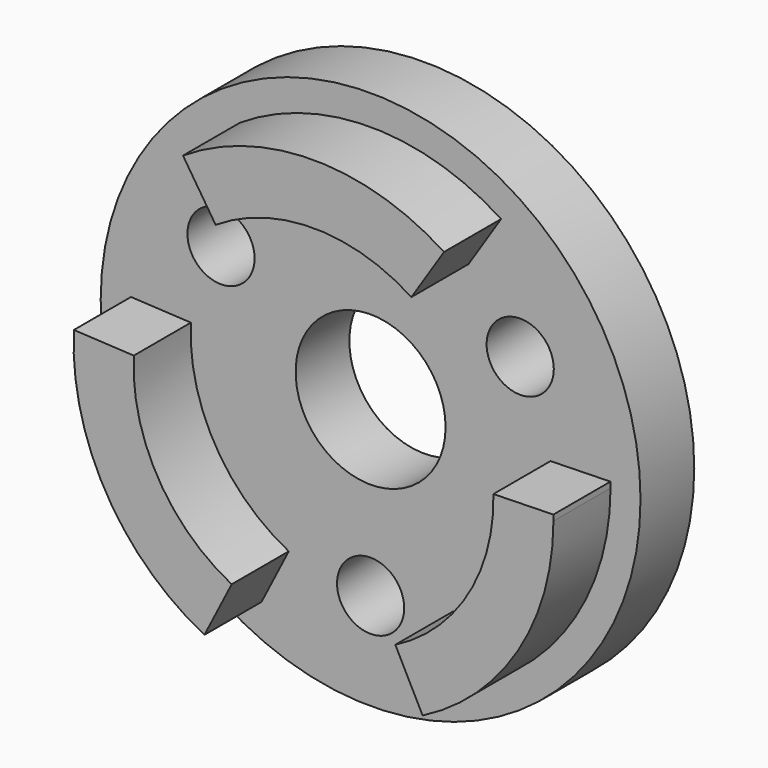
from build123d import *

# Parameters (mm, degrees)
F0_R     = 57.15
F0_R_2   = 15.875
F1_DEPTH = 7.112
F3_DEPTH = 15.113
F2_R     = 7.112
F4_DEPTH = 15.114


with BuildPart() as f1:
    # F0 (on Front) → F1 (new body, symmetric)
    with BuildSketch(Plane.XZ):
        Circle(F0_R)
        Circle(F0_R_2, mode=Mode.SUBTRACT)
    extrude(amount=F1_DEPTH, both=True)

    # F2 (on face) → F3 (join, symmetric)
    with BuildSketch(Plane.XZ.offset(7.112)):
        with BuildLine():
            ThreePointArc((-17.325537, -33.932813), (-32.995568, -19.05), (-38.049446, 1.962051))
            Line((-38.049446, 1.962051), (-50.732595, 2.616068))
            ThreePointArc((-50.732595, 2.616068), (-43.994091, -25.4), (-23.100716, -45.24375))
            Line((-23.100716, -45.24375), (-17.325537, -33.932813))
        make_face()
        with BuildLine():
            ThreePointArc((27.631879, 42.627682), (0, 50.8), (-27.631879, 42.627682))
            Line((-27.631879, 42.627682), (-20.723909, 31.970762))
            ThreePointArc((-20.723909, 31.970762), (0, 38.1), (20.723909, 31.970762))
            Line((20.723909, 31.970762), (27.631879, 42.627682))
        make_face()
        with BuildLine():
            Line((17.325537, -33.932813), (23.100716, -45.24375))
            ThreePointArc((23.100716, -45.24375), (43.32526, -26.52474), (50.8, 0))
            ThreePointArc((50.8, 0), (50.796375, 0.606886), (50.7855, 1.213686))
            Line((50.7855, 1.213686), (38.089125, 0.910265))
            ThreePointArc((38.089125, 0.910265), (32.729286, -19.503943), (17.325537, -33.932813))
        make_face()
    extrude(amount=F3_DEPTH, both=True)

    # F2 (on face) → F4 (cut, through all)
    with BuildSketch(Plane.XZ.offset(7.112)):
        with Locations((-31.675745, 18.288)):
            Circle(F2_R)
        with Locations((31.675745, 18.288)):
            Circle(F2_R)
        with Locations((0, -36.576)):
            Circle(F2_R)
    extrude(amount=-F4_DEPTH, mode=Mode.SUBTRACT)


solid = f1.part
